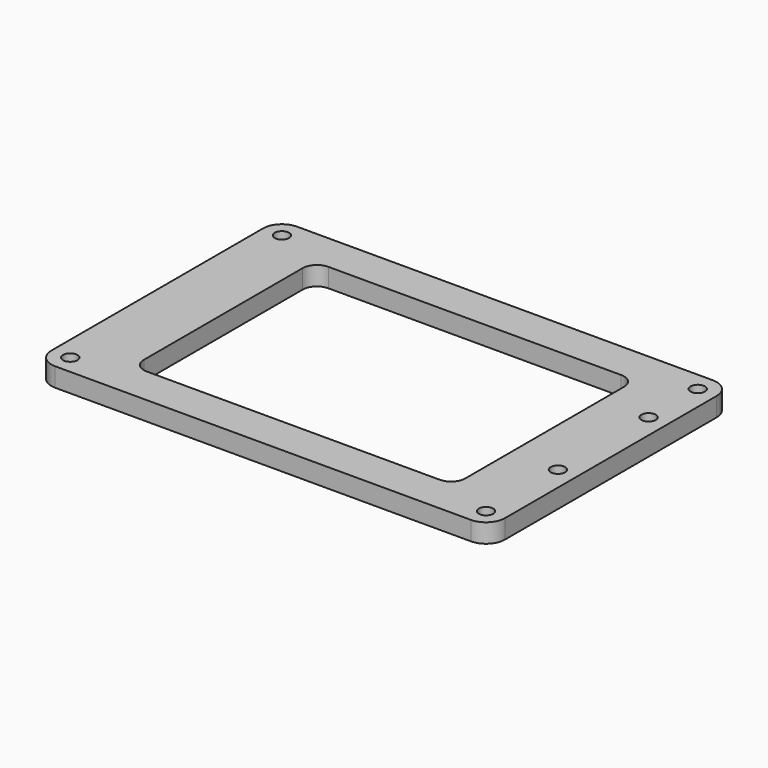
from build123d import *

# Parameters (mm, degrees)
F0_R     = 2.413
F1_DEPTH = 6.35
F2_SIZE  = 1.9812
F3_SIZE  = 1.9812


with BuildPart() as f1:
    # F0 (on Top) → F1 (new body)
    with BuildSketch(Plane.XY):
        with BuildLine():
            ThreePointArc((-76.2, -44.45), (-74.340128, -48.940128), (-69.85, -50.8))
            Line((-69.85, -50.8), (69.85, -50.8))
            ThreePointArc((69.85, -50.8), (74.340128, -48.940128), (76.2, -44.45))
            Line((76.2, -44.45), (76.2, 44.45))
            ThreePointArc((76.2, 44.45), (74.340128, 48.940128), (69.85, 50.8))
            Line((69.85, 50.8), (-69.85, 50.8))
            ThreePointArc((-69.85, 50.8), (-74.340128, 48.940128), (-76.2, 44.45))
            Line((-76.2, 44.45), (-76.2, -44.45))
        make_face()
        with Locations((-69.85, -44.45)):
            Circle(F0_R, mode=Mode.SUBTRACT)
        with Locations((69.85, -44.45)):
            Circle(F0_R, mode=Mode.SUBTRACT)
        with Locations((69.85, -14.2748)):
            Circle(F0_R, mode=Mode.SUBTRACT)
        with Locations((-69.85, 44.45)):
            Circle(F0_R, mode=Mode.SUBTRACT)
        with BuildLine():
            ThreePointArc((-53.975, 33.3248), (-52.576376, 36.701376), (-49.1998, 38.1))
            Line((-49.1998, 38.1), (49.1998, 38.1))
            ThreePointArc((49.1998, 38.1), (52.576376, 36.701376), (53.975, 33.3248))
            Line((53.975, 33.3248), (53.975, -33.3248))
            ThreePointArc((53.975, -33.3248), (52.576376, -36.701376), (49.1998, -38.1))
            Line((49.1998, -38.1), (-49.1998, -38.1))
            ThreePointArc((-49.1998, -38.1), (-52.576376, -36.701376), (-53.975, -33.3248))
            Line((-53.975, -33.3248), (-53.975, 33.3248))
        make_face(mode=Mode.SUBTRACT)
        with Locations((69.85, 23.8125)):
            Circle(F0_R, mode=Mode.SUBTRACT)
        with Locations((69.85, 44.45)):
            Circle(F0_R, mode=Mode.SUBTRACT)
    extrude(amount=F1_DEPTH)

    # F2
    f2_edges = [f1.edges().sort_by_distance(p)[0] for p in [
        (-72.263, 44.45, 0),
        (-72.263, -44.45, 0),
        (67.437, 44.45, 0),
        (67.437, -44.45, 0),
    ]]
    chamfer(f2_edges, length=F2_SIZE)

    # F3
    f3_edges = [f1.edges().sort_by_distance(p)[0] for p in [
        (67.437, 23.8125, 0),
        (67.437, -14.2748, 0),
    ]]
    chamfer(f3_edges, length=F3_SIZE)


solid = f1.part
